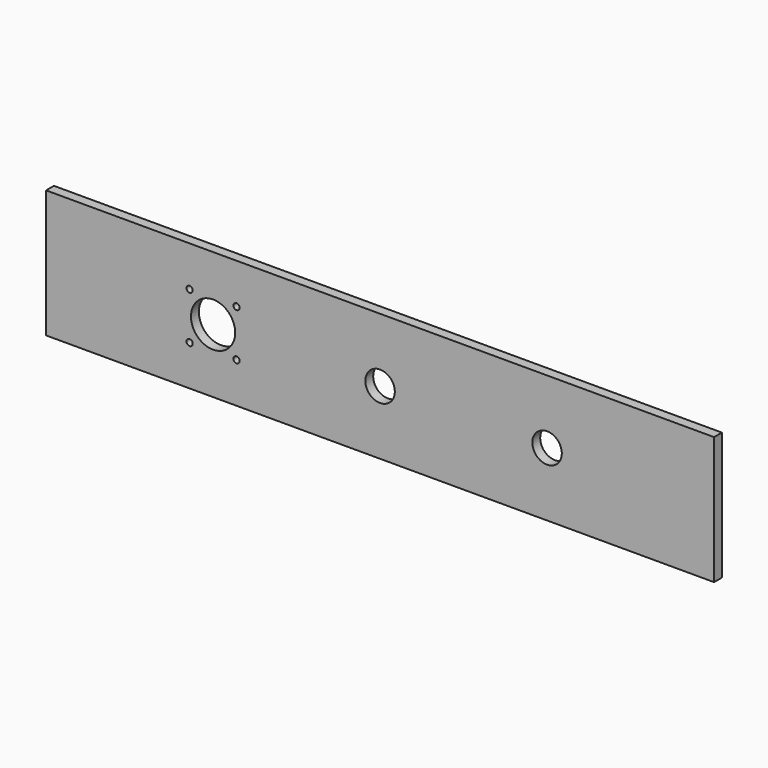
from build123d import *

# Parameters (mm, degrees)
F0_W     = 431.8
F0_H     = 82.55
F1_DEPTH = 6.35
F3_DEPTH = 6.35
F5_DEPTH = 6.35


with BuildPart() as f1:
    # F0 (on Front) → F1 (new body)
    with BuildSketch(Plane.XZ):
        Rectangle(F0_W, F0_H)
    extrude(amount=F1_DEPTH)

    # F2 (on face) → F3 (cut, through all)
    with BuildSketch(Plane.XZ.offset(6.35)):
        with BuildLine():
            ThreePointArc((-93.6625, 0), (-107.95, 14.2875), (-122.2375, 0))
            Line((-122.2375, 0), (-93.6625, 0))
        make_face()
        with BuildLine():
            ThreePointArc((117.475, 0), (107.95, 9.525), (98.425, 0))
            Line((98.425, 0), (117.475, 0))
        make_face()
        with BuildLine():
            Line((117.475, 0), (98.425, 0))
            ThreePointArc((98.425, 0), (107.95, -9.525), (117.475, 0))
        make_face()
        with BuildLine():
            ThreePointArc((9.525, 0), (0, 9.525), (-9.525, 0))
            Line((-9.525, 0), (9.525, 0))
        make_face()
        with BuildLine():
            Line((9.525, 0), (-9.525, 0))
            ThreePointArc((-9.525, 0), (0, -9.525), (9.525, 0))
        make_face()
        with BuildLine():
            Line((-93.6625, 0), (-122.2375, 0))
            ThreePointArc((-122.2375, 0), (-107.95, -14.2875), (-93.6625, 0))
        make_face()
    extrude(amount=-F3_DEPTH, mode=Mode.SUBTRACT)

    # F4 (on face) → F5 (cut, through all)
    with BuildSketch(Plane.XZ.offset(6.35)):
        with BuildLine():
            Line((-123.10745, -15.15745), (-123.10745, -13.13815))
            ThreePointArc((-123.10745, -13.13815), (-124.535311, -16.585311), (-121.08815, -15.15745))
            Line((-121.08815, -15.15745), (-123.10745, -15.15745))
        make_face()
        with BuildLine():
            ThreePointArc((-121.08815, -15.15745), (-121.679589, -13.729589), (-123.10745, -13.13815))
            Line((-123.10745, -13.13815), (-123.10745, -15.15745))
            Line((-123.10745, -15.15745), (-121.08815, -15.15745))
        make_face()
        with BuildLine():
            ThreePointArc((-90.77325, -15.15745), (-91.364689, -13.729589), (-92.79255, -13.13815))
            Line((-92.79255, -13.13815), (-92.79255, -15.15745))
            Line((-92.79255, -15.15745), (-94.81185, -15.15745))
            ThreePointArc((-94.81185, -15.15745), (-92.79255, -17.17675), (-90.77325, -15.15745))
        make_face()
        with BuildLine():
            Line((-92.79255, -15.15745), (-92.79255, -13.13815))
            ThreePointArc((-92.79255, -13.13815), (-94.220411, -13.729589), (-94.81185, -15.15745))
            Line((-94.81185, -15.15745), (-92.79255, -15.15745))
        make_face()
        with BuildLine():
            Line((-92.79255, 15.15745), (-94.81185, 15.15745))
            ThreePointArc((-94.81185, 15.15745), (-94.220411, 13.729589), (-92.79255, 13.13815))
            Line((-92.79255, 13.13815), (-92.79255, 15.15745))
        make_face()
        with BuildLine():
            ThreePointArc((-90.77325, 15.15745), (-92.79255, 17.17675), (-94.81185, 15.15745))
            Line((-94.81185, 15.15745), (-92.79255, 15.15745))
            Line((-92.79255, 15.15745), (-92.79255, 13.13815))
            ThreePointArc((-92.79255, 13.13815), (-91.364689, 13.729589), (-90.77325, 15.15745))
        make_face()
        with BuildLine():
            ThreePointArc((-123.10745, 13.13815), (-121.679589, 13.729589), (-121.08815, 15.15745))
            Line((-121.08815, 15.15745), (-123.10745, 15.15745))
            Line((-123.10745, 15.15745), (-123.10745, 13.13815))
        make_face()
        with BuildLine():
            Line((-123.10745, 15.15745), (-121.08815, 15.15745))
            ThreePointArc((-121.08815, 15.15745), (-124.535311, 16.585311), (-123.10745, 13.13815))
            Line((-123.10745, 13.13815), (-123.10745, 15.15745))
        make_face()
    extrude(amount=-F5_DEPTH, mode=Mode.SUBTRACT)


solid = f1.part
